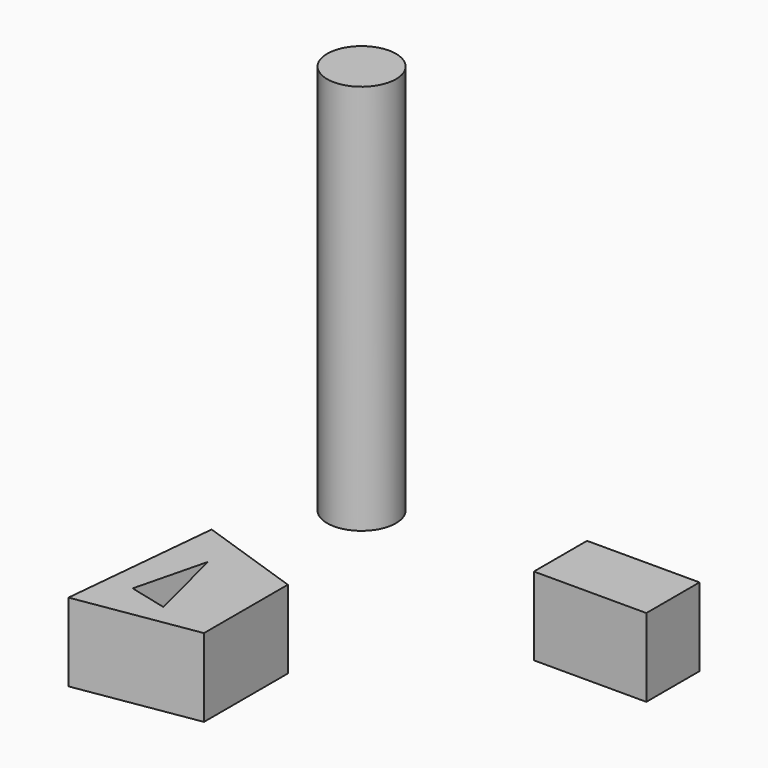
from build123d import *

# Parameters (mm, degrees)
F1_DEPTH = 25.4
F0_W     = 36.537992
F0_H     = 21.590633
F2_DEPTH = 25.4
F0_R     = 11.179722
F3_DEPTH = 127


with BuildPart() as f1:
    # F0 (on Top) → F1 (new body)
    with BuildSketch(Plane.XY):
        Polygon((-20.952431, -29.079724), (-54.999199, -17.453996), (-59.981655, -69.354557), (-20.952431, -63.12649), align=None)
        Polygon((-50.431952, -55.237599), (-44.619087, -31.986151), (-37.92697, -58.363846), align=None, mode=Mode.SUBTRACT)
    extrude(amount=F1_DEPTH)


with BuildPart() as f2:
    # F0 (on Top) → F2 (new body)
    with BuildSketch(Plane.XY):
        with Locations((41.520446, 26.365479)):
            Rectangle(F0_W, F0_H)
    extrude(amount=F2_DEPTH)


with BuildPart() as f3:
    # F0 (on Top) → F3 (new body)
    with BuildSketch(Plane.XY):
        with Locations((-62.280677, 52.52336)):
            Circle(F0_R)
    extrude(amount=F3_DEPTH)


solid = Compound([f1.part, f2.part, f3.part])
